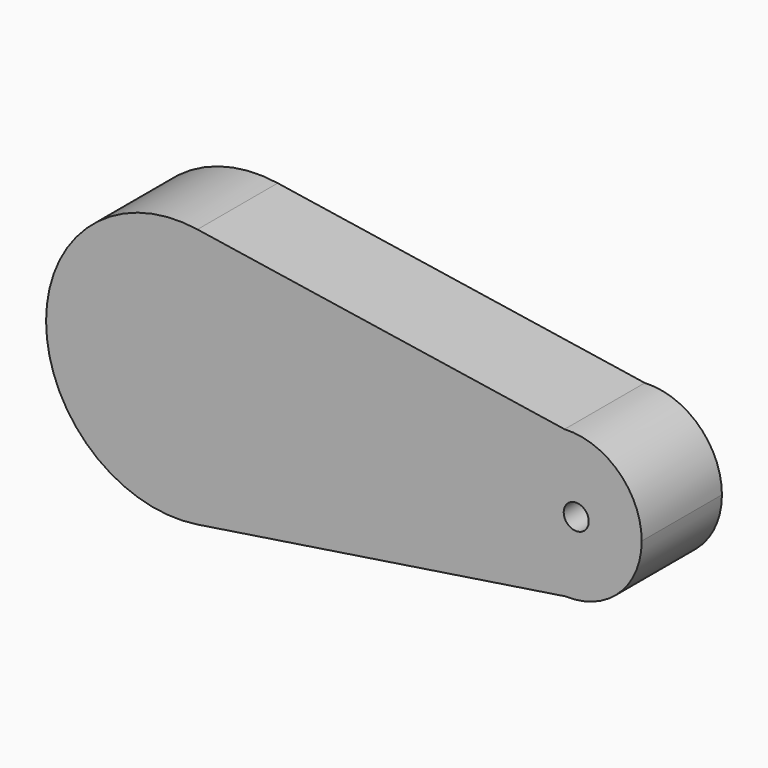
from build123d import *

# Parameters (mm, degrees)
F1_DEPTH       = 25.4
F3_D           = 6.35
F3_CSINK_D     = 12.7
F3_CSINK_ANGLE = 90


with BuildPart() as f1:
    # F0 (on Front) → F1 (new body)
    with BuildSketch(Plane.XZ):
        with BuildLine():
            ThreePointArc((5.04393, -32.902527), (25.257814, -21.680876), (33.286897, 0))
            ThreePointArc((33.286897, 0), (25.264232, 21.673396), (5.063414, 32.899534))
            ThreePointArc((5.063414, 32.899534), (-33.286896, 0.009856), (5.04393, -32.902527))
        make_face()
        with BuildLine():
            ThreePointArc((5.063414, 32.899534), (25.264232, 21.673396), (33.286897, 0))
            ThreePointArc((33.286897, 0), (25.257814, -21.680876), (5.04393, -32.902527))
            Line((5.04393, -32.902527), (98.331634, -18.601599))
            ThreePointArc((98.331634, -18.601599), (80.357625, -0.14439), (98.043109, 18.589462))
            Line((98.043109, 18.589462), (5.063414, 32.899534))
        make_face()
        with BuildLine():
            ThreePointArc((117.582137, 0), (111.798906, 13.484637), (98.043109, 18.589462))
            ThreePointArc((98.043109, 18.589462), (80.357625, -0.14439), (98.331634, -18.601599))
            ThreePointArc((98.331634, -18.601599), (111.903129, -13.384705), (117.582137, 0))
        make_face()
    extrude(amount=F1_DEPTH)

    # F3 (through all)
    with Locations(Plane(origin=(0, 0, 0), x_dir=(1, 0, 0), z_dir=(0, 1, 0))):
        with Locations((101.000592, 0)):
            CounterSinkHole(F3_D / 2, F3_CSINK_D / 2, counter_sink_angle=F3_CSINK_ANGLE)


solid = f1.part
